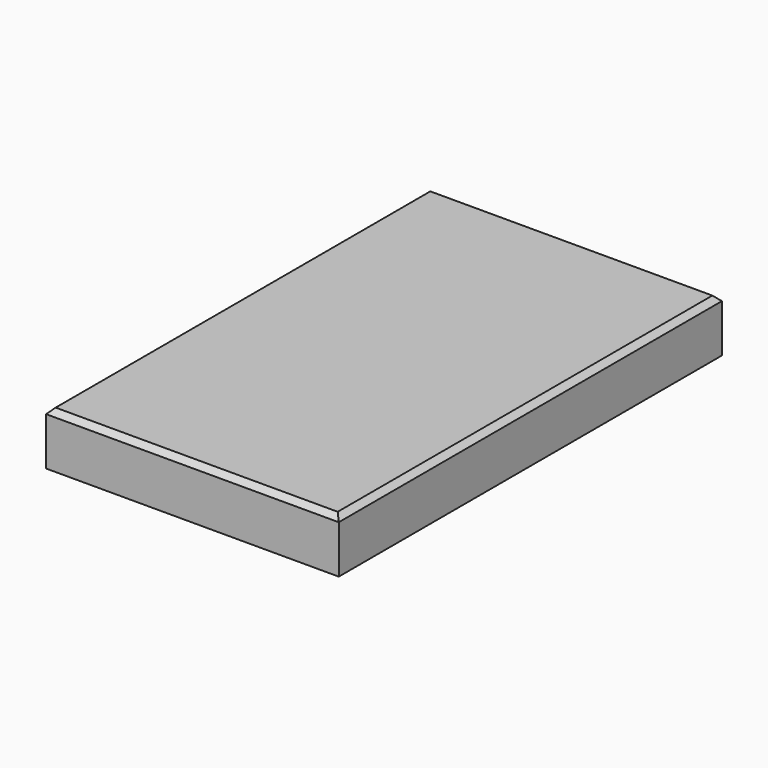
from build123d import *

# Parameters (mm, degrees)
F0_W     = 11
F0_H     = 18
F1_DEPTH = 2
F2_SIZE  = 0.2


with BuildPart() as f1:
    # F0 (on Top) → F1 (new body)
    with BuildSketch(Plane.XY):
        Rectangle(F0_W, F0_H)
    extrude(amount=F1_DEPTH)

    # F2
    f2_edges = [f1.edges().sort_by_distance(p)[0] for p in [
        (5.5, 0, 2),
        (0, -9, 2),
        (-5.5, 0, 2),
        (0, 9, 2),
    ]]
    chamfer(f2_edges, length=F2_SIZE)


solid = f1.part
